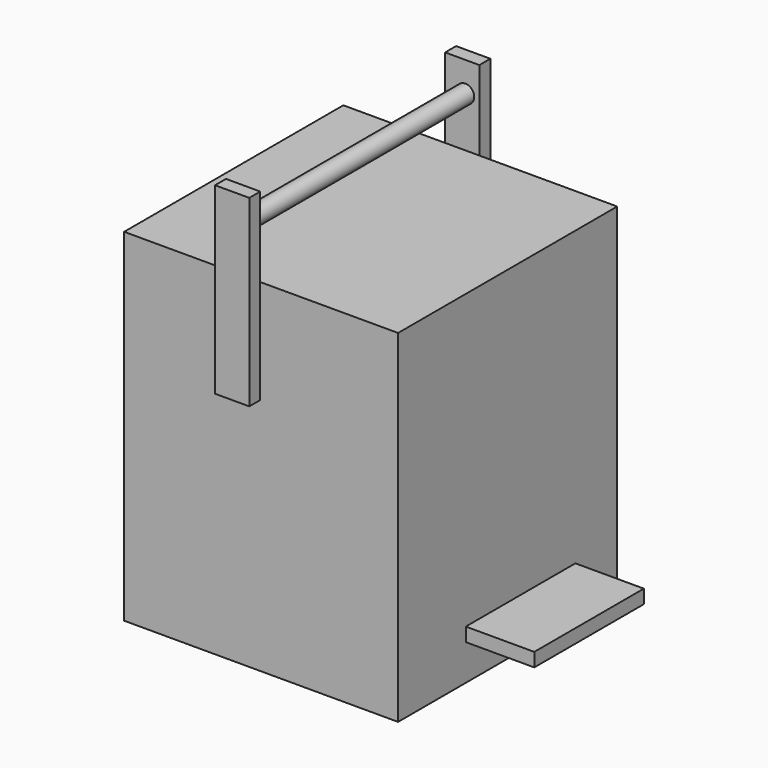
from build123d import *

# Parameters (mm, degrees)
F0_W     = 101.6
F0_H     = 127
F1_DEPTH = 101.6
F2_W     = 50.8
F2_H     = 5.08
F3_DEPTH = 25.4
F4_W     = 12.7
F4_H     = 29.5519137372
F4_H_2   = 38.5342074425
F5_DEPTH = 5.08
F6_W     = 12.7
F6_H     = 63.5
F7_DEPTH = 5.08
F8_R     = 3.3143898489
F9_DEPTH = 109.22


with BuildPart() as f1:
    # F0 (on Front) → F1 (new body)
    with BuildSketch(Plane.XZ):
        with Locations((-50.8, 63.5)):
            Rectangle(F0_W, F0_H)
    extrude(amount=F1_DEPTH)

    # F2 (on face) → F3 (join)
    with BuildSketch(Plane.YZ):
        with Locations((-44.8094035365, 15.8326673792)):
            Rectangle(F2_W, F2_H)
    extrude(amount=F3_DEPTH)

    # F4 (on face) → F5 (join)
    with BuildSketch(Plane.XZ.offset(101.6)):
        with Locations((-57.4776338577, 141.7759568686)):
            Rectangle(F4_W, F4_H)
        with Locations((-57.4776338577, 107.7328962787)):
            Rectangle(F4_W, F4_H_2)
    extrude(amount=F5_DEPTH)

    # F6 (on face) → F7 (join)
    with BuildSketch(Plane(origin=(0, 0, 0), x_dir=(-1, 0, 0), z_dir=(0, 1, 0))):
        with Locations((57.4776338577, 124.8019137372)):
            Rectangle(F6_W, F6_H)
    extrude(amount=F7_DEPTH)

    # F8 (on face) → F9 (join)
    with BuildSketch(Plane(origin=(0, 5.08, 0), x_dir=(-1, 0, 0), z_dir=(0, 1, 0))):
        with Locations((56.3409850001, 145.4961895943)):
            Circle(F8_R)
    extrude(amount=-F9_DEPTH)


solid = f1.part
